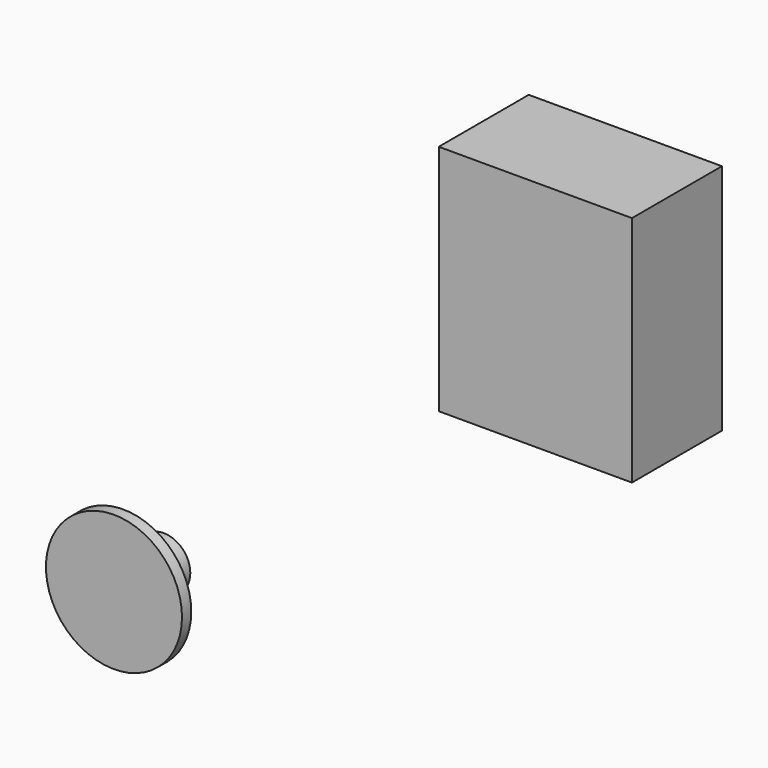
from build123d import *

# Parameters (mm, degrees)
F0_W     = 33.909
F0_H     = 40.8686
F1_DEPTH = 19.7358
F2_R     = 4.6609
F3_DEPTH = 8.89
F5_R     = 4.6609
F6_DEPTH = 8.89
F7_R     = 11.938
F8_DEPTH = 2.032


with BuildPart() as f1:
    # F0 (on Front) → F1 (new body)
    with BuildSketch(Plane.XZ):
        with Locations((-0.1377054849, 9.807396424)):
            Rectangle(F0_W, F0_H)
    extrude(amount=F1_DEPTH)

    # F2 (on face) → F3 (cut)
    with BuildSketch(Plane(origin=(-17.0922054849, 0, 0), x_dir=(0, -1, 0), z_dir=(-1, 0, 0))):
        with Locations((9.8679, 0)):
            Circle(F2_R)
    extrude(amount=-F3_DEPTH, mode=Mode.SUBTRACT)


with BuildPart() as f6:
    # F5 (on offset) → F6 (new body)
    with BuildSketch(Plane.XZ.offset(101.4367210587)):
        with Locations((0, 4.6609)):
            Circle(F5_R)
    extrude(amount=F6_DEPTH)

    # F7 (on face) → F8 (join)
    with BuildSketch(Plane.XZ.offset(110.3267210587)):
        with Locations((0, 4.6609)):
            Circle(F7_R)
    extrude(amount=F8_DEPTH)


solid = Compound([f1.part, f6.part])
